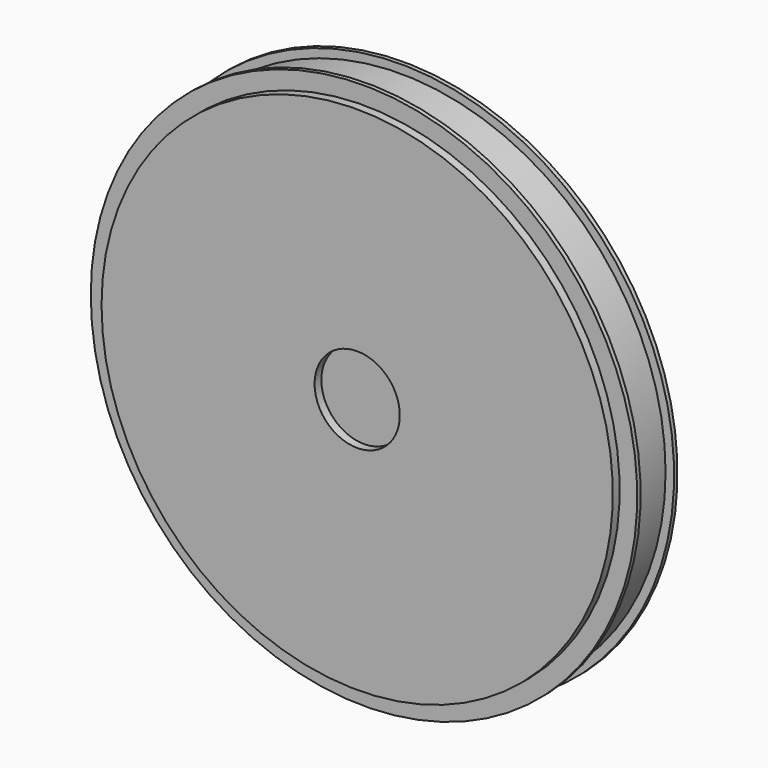
from build123d import *

# Parameters (mm, degrees)
F0_W = 63.483885
F0_H = 2.54


with BuildPart() as f1:
    # F0 (on Top) → F1 (revolve)
    with BuildSketch(Plane.XY):
        Polygon((-128.166793, -1.973371), (-128.166793, -3.243371), (-125.626793, -3.243371), (-125.626793, -15.703371), (-128.166793, -15.703371), (-128.166793, -16.973371), (-122.922303, -16.973371), (-59.438418, -16.973371), (-59.438418, -1.973371), align=None)
        with Locations((-91.180361, -18.243371)):
            Rectangle(F0_W, F0_H)
    revolve(axis=Axis((-46.738418, -9.473371, 0), (0, 1, 0)))


solid = f1.part
